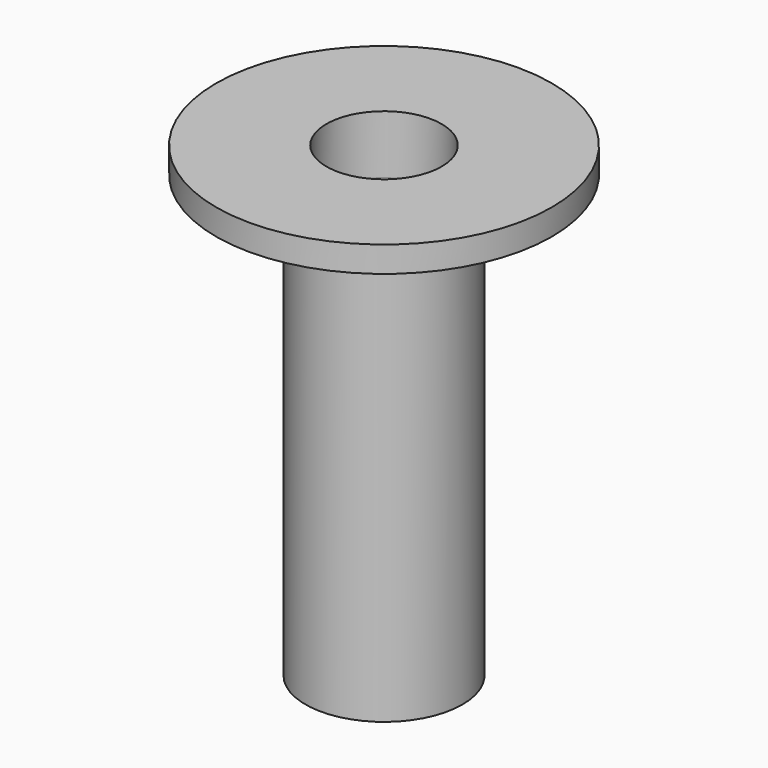
from build123d import *

# Parameters (mm, degrees)
F2_R     = 8.65
F2_R_2   = 6.35
F3_DEPTH = 45


with BuildPart() as f1:
    # F0 (on Front) → F1 (revolve)
    with BuildSketch(Plane.XZ):
        Polygon((6.35, 6.435107), (6.35, 0), (8.65, 0), (18.5, 3.585107), (18.5, 6.435107), align=None)
    revolve(axis=Axis((0, 0, 5.644994), (0, 0, 1)))

    # F2 (on Top) → F3 (join)
    with BuildSketch(Plane.XY):
        Circle(F2_R)
        Circle(F2_R_2, mode=Mode.SUBTRACT)
    extrude(amount=-F3_DEPTH)


solid = f1.part
